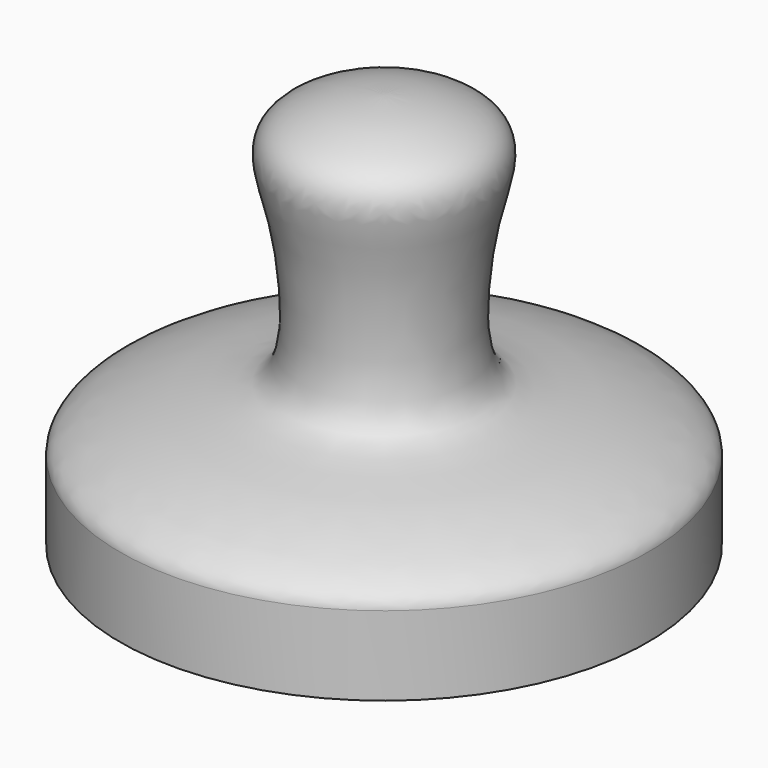
from build123d import *


with BuildPart() as f1:
    # F0 (on Front) → F1 (revolve)
    with BuildSketch(Plane.XZ):
        with BuildLine():
            Line((-50, 0), (0, 0))
            Line((0, 0), (0, 75))
            add(Edge.make_bspline(
                [(-50, 15), (-49.9966462025, 18.6753511715), (-30.3559796016, 25.2713095813), (-15.9617913975, 25.5067645544), (-14.9498701768, 41.4169159473), (-17.0713544901, 56.3637726605), (-22.5209384789, 71.4172894917), (-7.0524408026, 74.9941150964), (0, 75)],
                knots=[0, 0, 0, 0, 0.1911729172, 0.3488711468, 0.4986657798, 0.6693188142, 0.815231514, 1, 1, 1, 1], degree=3))
            Line((-50, 15), (-50, 0))
        make_face()
    revolve(axis=Axis((0, 0, 37.5), (0, 0, 1)))


solid = f1.part
